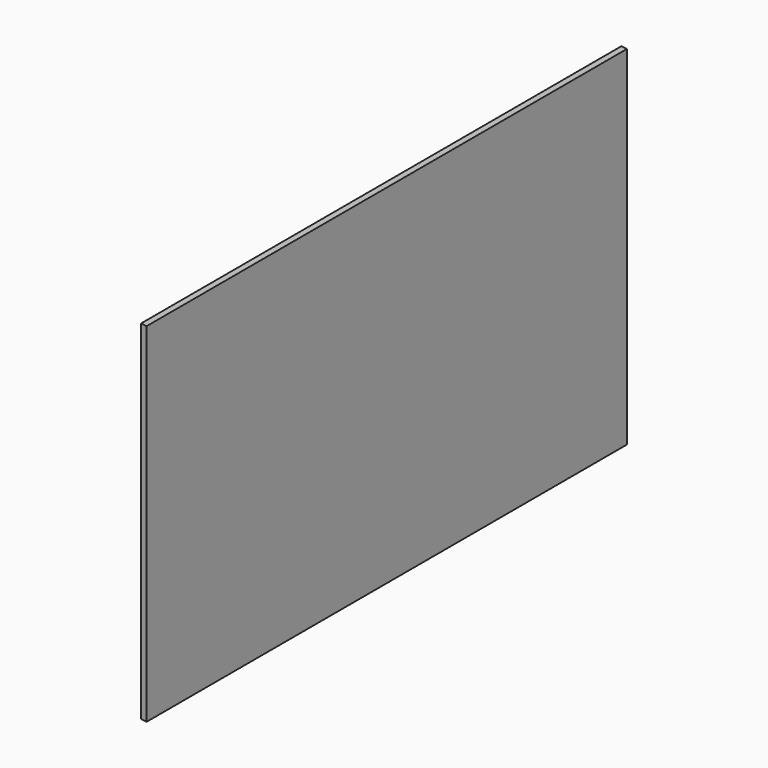
from build123d import *

# Parameters (mm, degrees)
F0_W     = 1219.2
F0_H     = 705.7204834
F1_DEPTH = 12.7
F3_DEPTH = 705.7214834


with BuildPart() as f1:
    # F0 (on Right) → F1 (new body)
    with BuildSketch(Plane.YZ):
        with Locations((-131.67509275, 6.6449750074)):
            Rectangle(F0_W, F0_H)
    extrude(amount=F1_DEPTH)

    # F2 (on face) → F3 (cut, through all)
    with BuildSketch(Plane.XY.offset(359.5052167074)):
        Polygon((12.7, 477.92490725), (0, 477.92490725), (12.7, 475.1934518348), align=None)
        Polygon((12.7, -741.27509275), (0, -738.5436373349), (0, -741.27509275), align=None)
    extrude(amount=-F3_DEPTH, mode=Mode.SUBTRACT)


solid = f1.part
